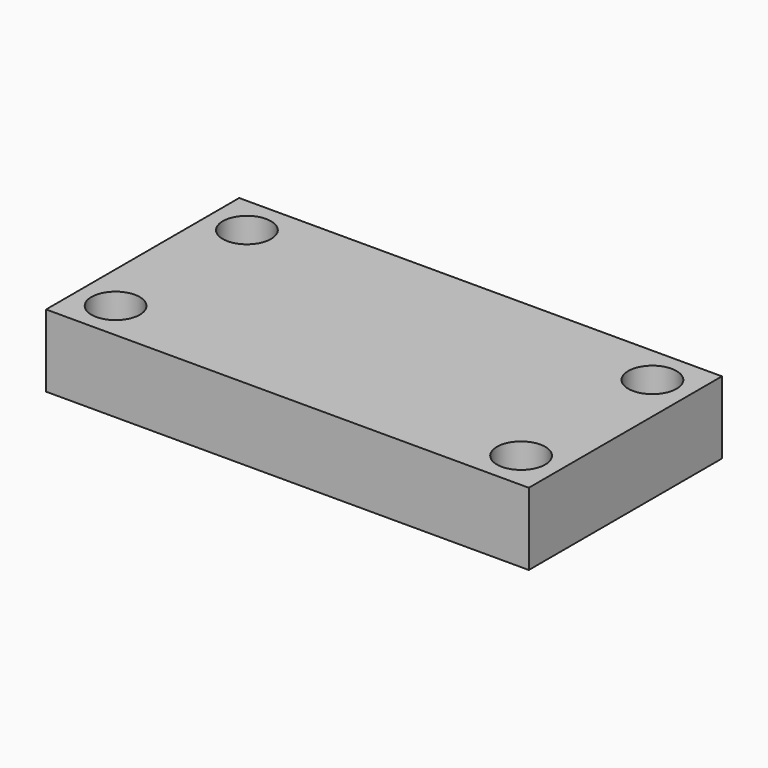
from build123d import *

# Parameters (mm, degrees)
SKETCH001_W  = 100
SKETCH001_H  = 50
SKETCH001_R  = 5
PAD_DEPTH    = 15
PAD001_DEPTH = 15


with BuildPart() as part:
    # Sketch001 → Pad (new body)
    with BuildSketch(Plane.XY):
        with Locations((50, 25)):
            Rectangle(SKETCH001_W, SKETCH001_H)
        with Locations((92, 42)):
            Circle(SKETCH001_R, mode=Mode.SUBTRACT)
        with Locations((8, 42)):
            Circle(SKETCH001_R, mode=Mode.SUBTRACT)
        with Locations((92, 8)):
            Circle(SKETCH001_R, mode=Mode.SUBTRACT)
        with Locations((8, 8)):
            Circle(SKETCH001_R, mode=Mode.SUBTRACT)
    extrude(amount=PAD_DEPTH)

    # Sketch001 → Pad001 (join)
    with BuildSketch(Plane.XY):
        with Locations((50, 25)):
            Rectangle(SKETCH001_W, SKETCH001_H)
        with Locations((92, 42)):
            Circle(SKETCH001_R, mode=Mode.SUBTRACT)
        with Locations((8, 42)):
            Circle(SKETCH001_R, mode=Mode.SUBTRACT)
        with Locations((92, 8)):
            Circle(SKETCH001_R, mode=Mode.SUBTRACT)
        with Locations((8, 8)):
            Circle(SKETCH001_R, mode=Mode.SUBTRACT)
    extrude(amount=PAD001_DEPTH)


solid = part.part
